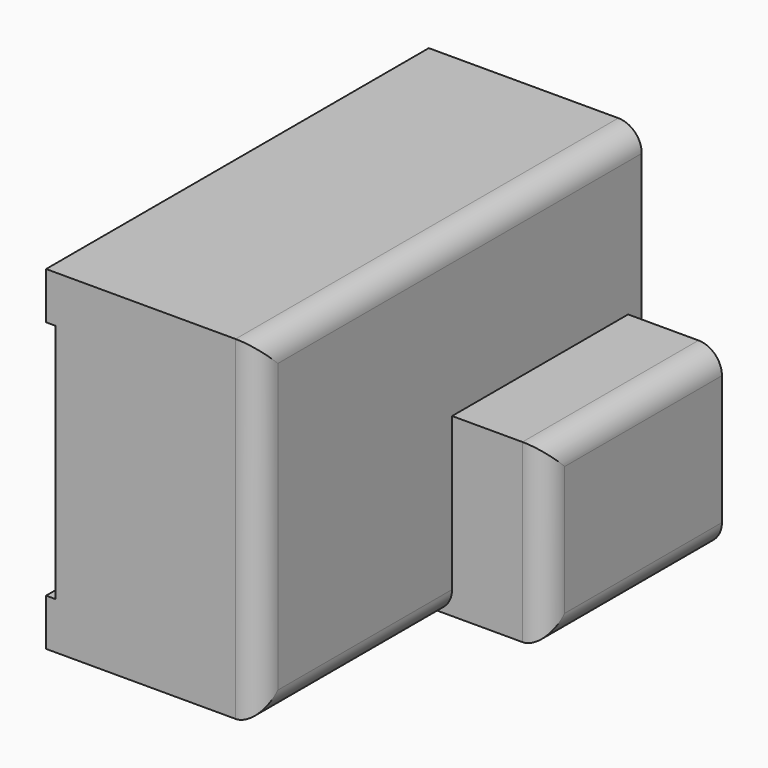
from build123d import *

# Parameters (mm, degrees)
F0_W          = 101.994724
F0_H          = 71.302697
F1_DEPTH      = 20
F1_DEPTH_BACK = 25.4
F2_W          = 46.908691
F2_H          = 37.560314
F3_DEPTH      = 20
F4_R          = 7.355932
F5_DEPTH      = 5
F6_R          = 5
F7_W          = 200
F7_H          = 51.302697
F8_DEPTH      = 2


with BuildPart() as f1:
    # F0 (on Right) → F1 (new body, two sides)
    with BuildSketch(Plane.YZ) as f1_sk:
        with Locations((0, -7.918309)):
            Rectangle(F0_W, F0_H)
    extrude(amount=F1_DEPTH)
    extrude(f1_sk.sketch, amount=-F1_DEPTH_BACK)

    # F2 (on face) → F3 (join)
    with BuildSketch(Plane.YZ.offset(20)):
        with Locations((23.909736, -24.789501)):
            Rectangle(F2_W, F2_H)
    extrude(amount=F3_DEPTH)

    # F4 (on face) → F5 (cut)
    with BuildSketch(Plane(origin=(0, 47.364082, 0), x_dir=(-1, 0, 0), z_dir=(0, 1, 0))):
        with Locations((-29.563382, -25.275597)):
            Circle(F4_R)
        with Locations((-29.563382, -25.275597)):
            Circle(F4_R)
    extrude(amount=-F5_DEPTH, mode=Mode.SUBTRACT)

    # F6
    f6_edges = [f1.edges().sort_by_distance(p)[0] for p in [
        (20, 0, 27.733039),
        (20, -50.997362, -7.918309),
        (20, -25.270985, -43.569658),
        (40, 23.909736, -43.569658),
        (40, 23.909736, -6.009344),
        (40, 0.455391, -24.789501),
    ]]
    fillet(f6_edges, radius=F6_R)

    # F7 (on face) → F8 (cut)
    with BuildSketch(Plane(origin=(-25.4, 0, 0), x_dir=(0, -1, 0), z_dir=(-1, 0, 0))):
        with Locations((15.092605, -7.918309)):
            Rectangle(F7_W, F7_H)
    extrude(amount=-F8_DEPTH, mode=Mode.SUBTRACT)


solid = f1.part
